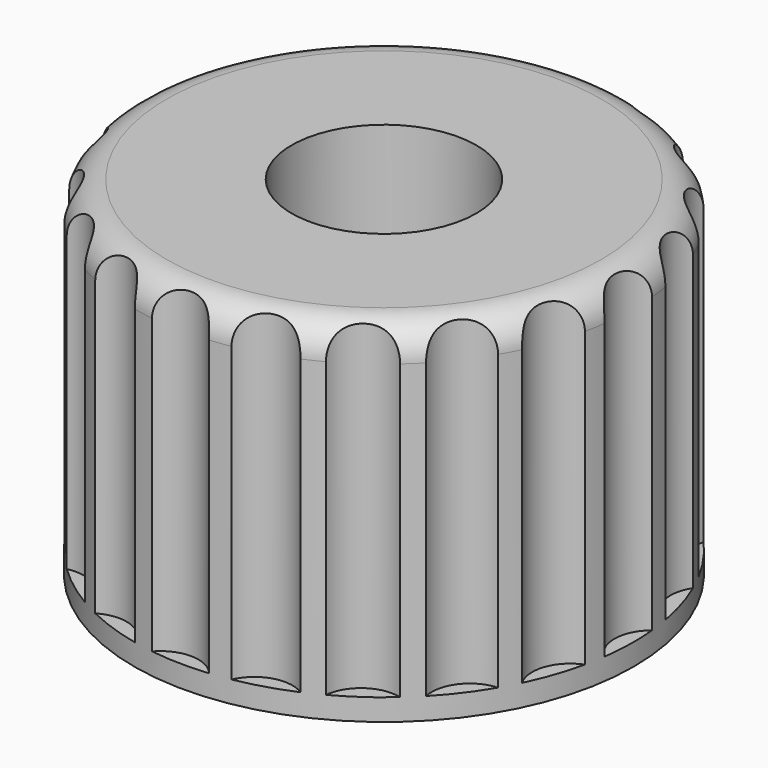
from build123d import *

# Parameters (mm, degrees)
CYLINDER010_R     = 0.35
CYLINDER010_DEPTH = 3
ARRAY001_COUNT    = 20
CYLINDER012_R     = 0.85
CYLINDER012_DEPTH = 3.2
CYLINDER011_R     = 2.3
CYLINDER011_DEPTH = 3.2
FILLET_R          = 0.3


with BuildPart() as array001:
    # Cylinder010 → Cylinder010 (new body)
    with BuildSketch(Plane(origin=(2.51021, 16.5511, 26.9), x_dir=(1, 0, 0), z_dir=(0, 0, 1))):
        Circle(CYLINDER010_R)
    extrude(amount=CYLINDER010_DEPTH)

    # Array001: Array001 ×20 about axis
    array001_axis = Axis((0, 16.6, 0), (0, 0, 1))


with BuildPart() as array001_1:
    add(array001.part)
    for i in range(1, ARRAY001_COUNT):
        add(array001.part.rotate(array001_axis, i * 360 / ARRAY001_COUNT))


with BuildPart() as cilindro_exterior:
    # Cylinder012 → Cylinder012 (new body)
    with BuildSketch(Plane(origin=(0, 16.6, 26.7), x_dir=(1, 0, 0), z_dir=(0, 0, 1))):
        Circle(CYLINDER012_R)
    extrude(amount=CYLINDER012_DEPTH)


with BuildPart() as eje_engranaje:
    # Cylinder011 → Cylinder011 (new body)
    with BuildSketch(Plane(origin=(0, 16.6, 26.7), x_dir=(1, 0, 0), z_dir=(0, 0, 1))):
        Circle(CYLINDER011_R)
    extrude(amount=CYLINDER011_DEPTH)

    # Cut003: cut Cilindro_exterior
    add(cilindro_exterior.part, mode=Mode.SUBTRACT)

    # Fillet
    fillet_edges = [eje_engranaje.edges().sort_by_distance(p)[0] for p in [
        (-2.3, 16.6, 29.9),
    ]]
    fillet(fillet_edges, radius=FILLET_R)

    # Cut004: cut Array001
    add(array001_1.part, mode=Mode.SUBTRACT)


solid = eje_engranaje.part
